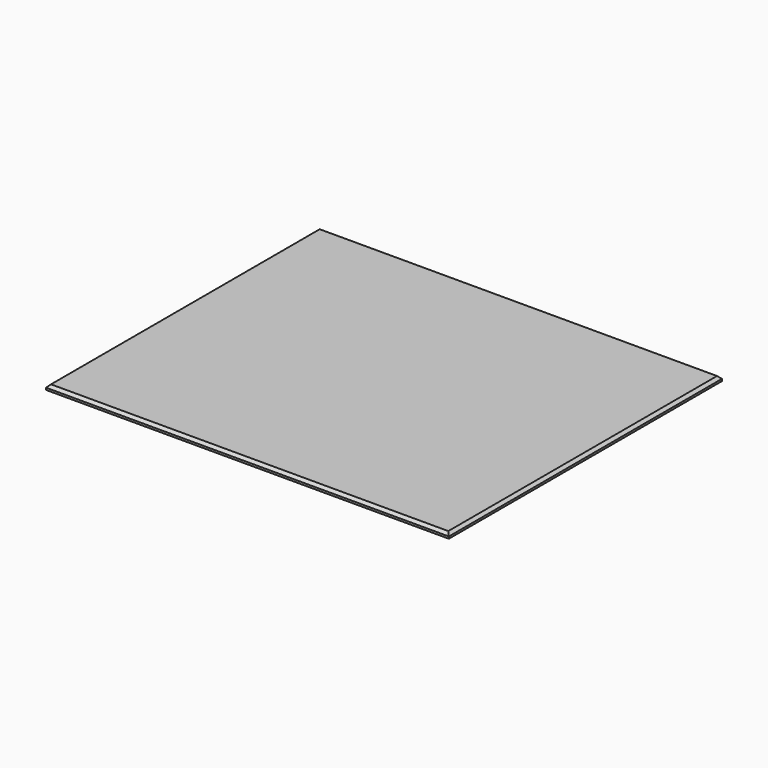
from build123d import *

# Parameters (mm, degrees)
F0_W     = 44.8449254036
F0_H     = 43.0354773998
F1_DEPTH = 7
F2_DEPTH = 590
F3_DEPTH = 500
F4_SIZE  = 4


with BuildPart() as f1:
    # F0 (on Top) → F1 (new body)
    with BuildSketch(Plane.XY):
        with Locations((22.4224627018, 21.5177386999)):
            Rectangle(F0_W, F0_H)
    extrude(amount=F1_DEPTH)

    # F2 (add): a face of the model
    f2_faces = [f1.faces().sort_by_distance(p)[0] for p in [
        (0, 21.5177386999, 3.5),
    ]]
    extrude(f2_faces, amount=-F2_DEPTH)

    # F3 (add): a face of the model
    f3_faces = [f1.faces().sort_by_distance(p)[0] for p in [
        (295, 0, 3.5),
    ]]
    extrude(f3_faces, amount=-F3_DEPTH)

    # F4
    f4_edges = [f1.edges().sort_by_distance(p)[0] for p in [
        (0, 250, 7),
        (295, 0, 7),
        (590, 250, 7),
        (295, 500, 7),
    ]]
    chamfer(f4_edges, length=F4_SIZE)


solid = f1.part
